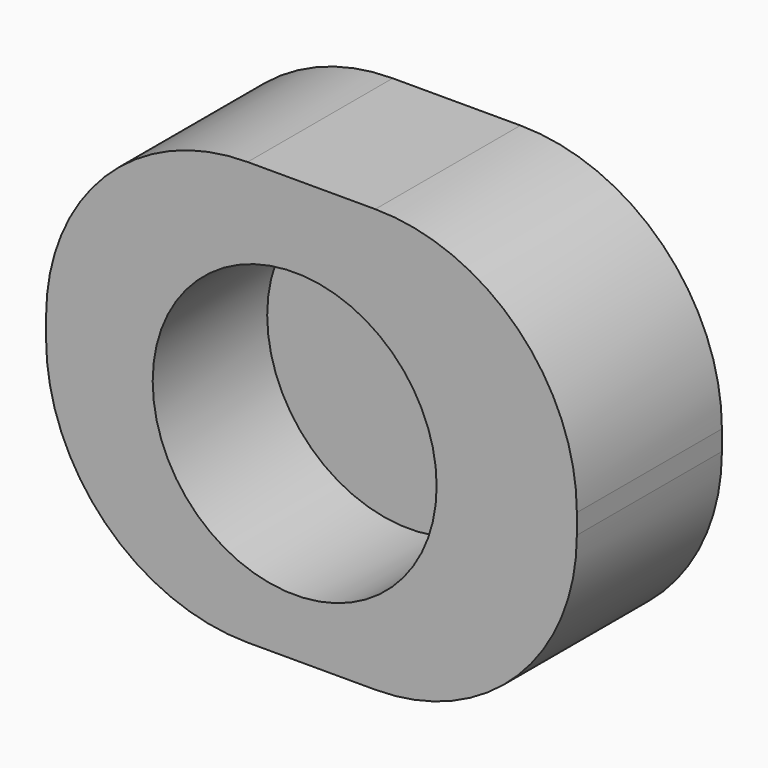
from build123d import *

# Parameters (mm, degrees)
F0_W     = 13.378338
F0_H     = 10.662744
F1_DEPTH = 4.57033
F2_R     = 3.578427
F3_DEPTH = 3.60733
F4_R     = 5.08


with BuildPart() as f1:
    # F0 (on Front) → F1 (new body)
    with BuildSketch(Plane.XZ):
        with Locations((-3.845378, 0.310359)):
            Rectangle(F0_W, F0_H)
    extrude(amount=F1_DEPTH)

    # F2 (on face) → F3 (cut)
    with BuildSketch(Plane.XZ.offset(4.57033)):
        with Locations((-4.26886, 0)):
            Circle(F2_R)
    extrude(amount=-F3_DEPTH, mode=Mode.SUBTRACT)

    # F4
    f4_edges = [f1.edges().sort_by_distance(p)[0] for p in [
        (2.843791, -2.285165, -5.021013),
        (2.843791, -2.285165, 5.641731),
        (-10.534547, -2.285165, 5.641731),
        (-10.534547, -2.285165, -5.021013),
    ]]
    fillet(f4_edges, radius=F4_R)


solid = f1.part
